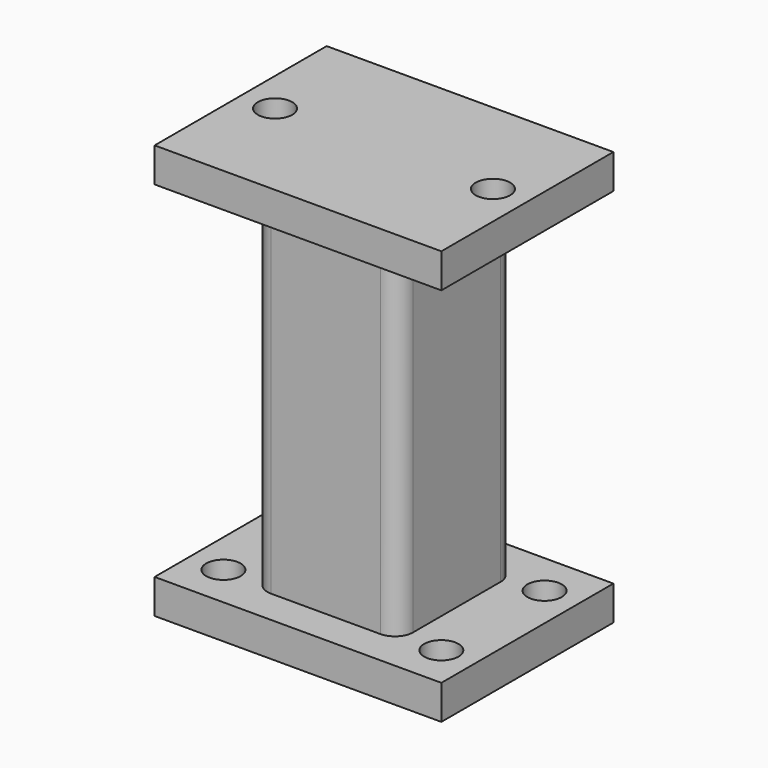
from build123d import *

# Parameters (mm, degrees)
F0_W     = 100
F0_H     = 75
F1_DEPTH = 12
F3_DEPTH = 120.5
F5_W     = 100
F5_H     = 75
F6_DEPTH = 12
F8_D     = 12
F8_DEPTH = 12
F8_TIP   = 3.6051637142
F9_D     = 12
F9_DEPTH = 12
F9_TIP   = 3.6051637142


with BuildPart() as f1:
    # F0 (on Top) → F1 (new body)
    with BuildSketch(Plane.XY):
        Rectangle(F0_W, F0_H)
    extrude(amount=-F1_DEPTH)

    # F2 (on face) → F3 (join)
    with BuildSketch(Plane.XY):
        with BuildLine():
            Line((-19.05, -25.4), (19.05, -25.4))
            ThreePointArc((19.05, -25.4), (23.5401280605, -23.5401280605), (25.4, -19.05))
            Line((25.4, -19.05), (25.4, 19.05))
            ThreePointArc((25.4, 19.05), (23.5401280605, 23.5401280605), (19.05, 25.4))
            Line((19.05, 25.4), (-19.05, 25.4))
            ThreePointArc((-19.05, 25.4), (-23.5401280605, 23.5401280605), (-25.4, 19.05))
            Line((-25.4, 19.05), (-25.4, -19.05))
            ThreePointArc((-25.4, -19.05), (-23.5401280605, -23.5401280605), (-19.05, -25.4))
        make_face()
        with BuildLine():
            Line((-12.7, 19.05), (12.7, 19.05))
            ThreePointArc((12.7, 19.05), (17.1901280605, 17.1901280605), (19.05, 12.7))
            Line((19.05, 12.7), (19.05, -12.7))
            ThreePointArc((19.05, -12.7), (17.1901280605, -17.1901280605), (12.7, -19.05))
            Line((12.7, -19.05), (-12.7, -19.05))
            ThreePointArc((-12.7, -19.05), (-17.1901280605, -17.1901280605), (-19.05, -12.7))
            Line((-19.05, -12.7), (-19.05, 12.7))
            ThreePointArc((-19.05, 12.7), (-17.1901280605, 17.1901280605), (-12.7, 19.05))
        make_face(mode=Mode.SUBTRACT)
    extrude(amount=F3_DEPTH)

    # F5 (on face) → F6 (join)
    with BuildSketch(Plane.XY.offset(120.5)):
        Rectangle(F5_W, F5_H)
        with BuildLine():
            Line((19.05, -25.4), (-19.05, -25.4))
            ThreePointArc((-19.05, -25.4), (-23.5401280605, -23.5401280605), (-25.4, -19.05))
            Line((-25.4, -19.05), (-25.4, 19.05))
            ThreePointArc((-25.4, 19.05), (-23.5401280605, 23.5401280605), (-19.05, 25.4))
            Line((-19.05, 25.4), (19.05, 25.4))
            ThreePointArc((19.05, 25.4), (23.5401280605, 23.5401280605), (25.4, 19.05))
            Line((25.4, 19.05), (25.4, -19.05))
            ThreePointArc((25.4, -19.05), (23.5401280605, -23.5401280605), (19.05, -25.4))
        make_face(mode=Mode.SUBTRACT)
        with BuildLine():
            ThreePointArc((-25.4, -19.05), (-23.5401280605, -23.5401280605), (-19.05, -25.4))
            Line((-19.05, -25.4), (19.05, -25.4))
            ThreePointArc((19.05, -25.4), (23.5401280605, -23.5401280605), (25.4, -19.05))
            Line((25.4, -19.05), (25.4, 19.05))
            ThreePointArc((25.4, 19.05), (23.5401280605, 23.5401280605), (19.05, 25.4))
            Line((19.05, 25.4), (-19.05, 25.4))
            ThreePointArc((-19.05, 25.4), (-23.5401280605, 23.5401280605), (-25.4, 19.05))
            Line((-25.4, 19.05), (-25.4, -19.05))
        make_face()
        with BuildLine():
            Line((-19.05, -12.7), (-19.05, 12.7))
            ThreePointArc((-19.05, 12.7), (-17.1901280605, 17.1901280605), (-12.7, 19.05))
            Line((-12.7, 19.05), (12.7, 19.05))
            ThreePointArc((12.7, 19.05), (17.1901280605, 17.1901280605), (19.05, 12.7))
            Line((19.05, 12.7), (19.05, -12.7))
            ThreePointArc((19.05, -12.7), (17.1901280605, -17.1901280605), (12.7, -19.05))
            Line((12.7, -19.05), (-12.7, -19.05))
            ThreePointArc((-12.7, -19.05), (-17.1901280605, -17.1901280605), (-19.05, -12.7))
        make_face(mode=Mode.SUBTRACT)
        with BuildLine():
            ThreePointArc((-12.7, 19.05), (-17.1901280605, 17.1901280605), (-19.05, 12.7))
            Line((-19.05, 12.7), (-19.05, -12.7))
            ThreePointArc((-19.05, -12.7), (-17.1901280605, -17.1901280605), (-12.7, -19.05))
            Line((-12.7, -19.05), (12.7, -19.05))
            ThreePointArc((12.7, -19.05), (17.1901280605, -17.1901280605), (19.05, -12.7))
            Line((19.05, -12.7), (19.05, 12.7))
            ThreePointArc((19.05, 12.7), (17.1901280605, 17.1901280605), (12.7, 19.05))
            Line((12.7, 19.05), (-12.7, 19.05))
        make_face()
    extrude(amount=F6_DEPTH)

    # F8
    with Locations(Plane.XY.offset(132.5)):
        with Locations((-38, 0), (38, 0)):
            Hole(F8_D / 2, depth=F8_DEPTH)
            with Locations((0, 0, -(F8_DEPTH + F8_TIP / 2))):  # 118° drill point
                Cone(0, F8_D / 2, F8_TIP, mode=Mode.SUBTRACT)

    # F9 (one way)
    with BuildSketch(Plane.XY):
        with Locations((-38, 22.5), (38, 22.5), (38, -22.5), (-38, -22.5)):
            Circle(F9_D / 2)
    extrude(amount=-F9_DEPTH, mode=Mode.SUBTRACT)
    with Locations(Plane.XY):
        with Locations((-38, 22.5), (38, 22.5), (38, -22.5), (-38, -22.5)):
            with Locations((0, 0, -(F9_DEPTH + F9_TIP / 2))):  # 118° drill point
                Cone(0, F9_D / 2, F9_TIP, mode=Mode.SUBTRACT)


solid = f1.part
